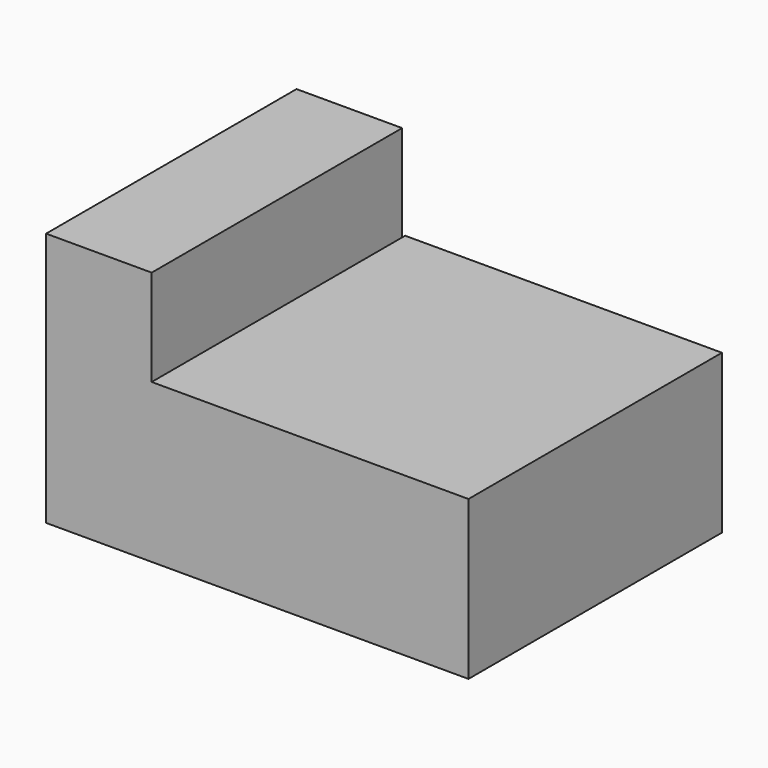
from build123d import *

# Parameters (mm, degrees)
F0_W     = 38.1
F0_H     = 38.1
F1_DEPTH = 19.05
F3_DEPTH = 12.7
F4_DEPTH = 19.05


with BuildPart() as f1:
    # F0 (on Top) → F1 (new body)
    with BuildSketch(Plane.XY):
        with Locations((-2.1893925067, -1.1373543657)):
            Rectangle(F0_W, F0_H)
    extrude(amount=F1_DEPTH)



with BuildPart() as f3:
    # F2 (on face) → F3 (new body)
    with BuildSketch(Plane(origin=(-21.2393925067, 0, 0), x_dir=(0, -1, 0), z_dir=(-1, 0, 0))):
        Polygon((-17.4572191403, 19.05), (20.1873543657, 19.05), (20.1873543657, 30.6271831505), (-17.4629575457, 30.6271831505), align=None)
    extrude(amount=F3_DEPTH)


with BuildPart() as f1_1:
    add(f1.part)
    # F4 (add): a face of the model
    f4_faces = [f3.part.faces().sort_by_distance(p)[0] for p in [
        (-27.5893925067, -1.3650676127, 19.05),
    ]]

    add(f3.part)  # F4 merges F3
    extrude(f4_faces, amount=F4_DEPTH)


solid = f1_1.part
